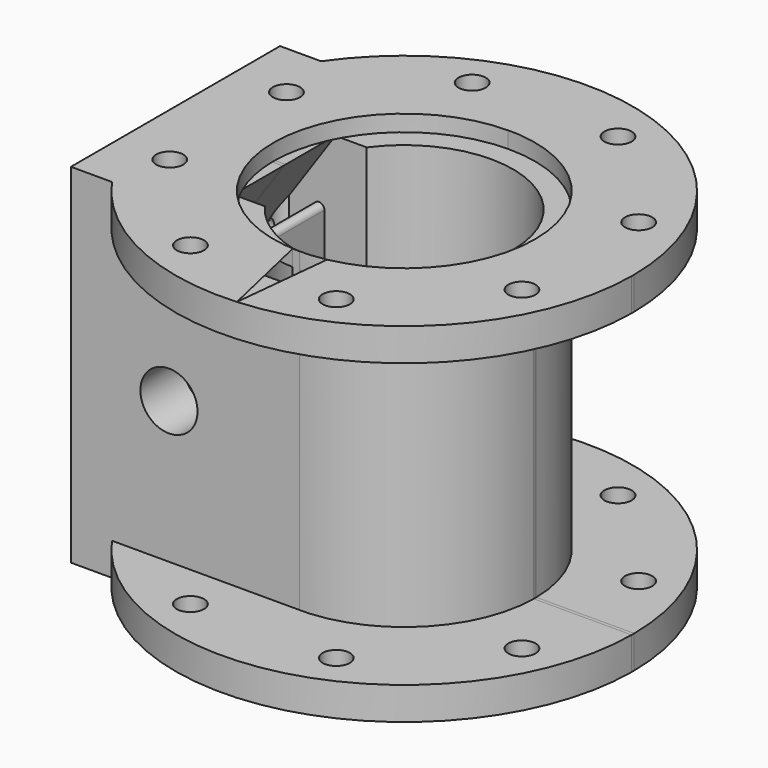
from build123d import *

# Parameters (mm, degrees)
F0_R      = 20
F0_R_2    = 2.5
F2_DEPTH  = 64
F3_R      = 2.5
F3_R_2    = 24.0344370868
F4_DEPTH  = 6
F5_R      = 2.5
F6_DEPTH  = 6
F9_D      = 3.3
F9_DEPTH  = 10
F9_TIP    = 0.9914200214
F10_DEPTH = 3
F12_W     = 120.8478473127
F12_H     = 85.8693234622
F13_DEPTH = 55.4
F14_W     = 3.756329813
F14_H     = 61
F15_DEPTH = 12
F17_D     = 10.5
F17_DEPTH = 9.91
F17_TIP   = 3.1545182499
F19_DEPTH = 10


with BuildPart() as f2:
    # F0 (on Top) → F2 (new body)
    with BuildSketch(Plane.XY):
        with BuildLine():
            ThreePointArc((0, 24), (-24, 0), (0, -24))
            ThreePointArc((0, -24), (16.9705627485, -16.9705627485), (24, 0))
            ThreePointArc((24, 0), (16.9705627485, 16.9705627485), (0, 24))
        make_face()
        Circle(F0_R, mode=Mode.SUBTRACT)
        with BuildLine():
            Line((-42, -24), (-34.4673758792, -24))
            Line((-34.4673758792, -24), (0, -24))
            ThreePointArc((0, -24), (-24, 0), (0, 24))
            Line((0, 24), (-34.4673758792, 24))
            Line((-34.4673758792, 24), (-42, 24))
            Line((-42, 24), (-42, 21.1562868208))
            Line((-42, 21.1562868208), (-42, 17.4879040569))
            Line((-42, 17.4879040569), (-42, -24))
        make_face()
        with Locations((-32.3357836379, -13.3939201328)):
            Circle(F0_R_2, mode=Mode.SUBTRACT)
        with Locations((-32.3357836379, 13.3939201328)):
            Circle(F0_R_2, mode=Mode.SUBTRACT)
    extrude(amount=-F2_DEPTH)

    # F3 (on Top) → F4 (join)
    with BuildSketch(Plane.XY):
        with BuildLine():
            Line((-42, -24), (-34.4673758792, -24))
            ThreePointArc((-34.4673758792, -24), (42, 0), (-34.4673758792, 24))
            Line((-34.4673758792, 24), (-42, 24))
            Line((-42, 24), (-42, -24))
        make_face()
        with Locations((-13.3939201328, -32.3357836379)):
            Circle(F3_R, mode=Mode.SUBTRACT)
        with Locations((-32.3357836379, -13.3939201328)):
            Circle(F3_R, mode=Mode.SUBTRACT)
        with Locations((13.3939201328, -32.3357836379)):
            Circle(F3_R, mode=Mode.SUBTRACT)
        Circle(F3_R_2, mode=Mode.SUBTRACT)
        with Locations((32.3357836379, -13.3939201328)):
            Circle(F3_R, mode=Mode.SUBTRACT)
        with Locations((-32.3357836379, 13.3939201328)):
            Circle(F3_R, mode=Mode.SUBTRACT)
        with Locations((-13.3939201328, 32.3357836379)):
            Circle(F3_R, mode=Mode.SUBTRACT)
        with Locations((32.3357836379, 13.3939201328)):
            Circle(F3_R, mode=Mode.SUBTRACT)
        with Locations((13.3939201328, 32.3357836379)):
            Circle(F3_R, mode=Mode.SUBTRACT)
    extrude(amount=-F4_DEPTH)

    # F5 (on face) → F6 (join)
    with BuildSketch(Plane(origin=(0, 0, -64), x_dir=(1, 0, 0), z_dir=(0, 0, -1))):
        with BuildLine():
            Line((-34.4673758792, 24), (-1.2861438799, 24))
            ThreePointArc((-1.2861438799, 24), (24.0344370868, 0), (-1.2861438799, -24))
            Line((-1.2861438799, -24), (-34.4673758792, -24))
            ThreePointArc((-34.4673758792, -24), (42, 0), (-34.4673758792, 24))
        make_face()
        with Locations((-13.3939201328, -32.3357836379)):
            Circle(F5_R, mode=Mode.SUBTRACT)
        with Locations((13.3939201328, -32.3357836379)):
            Circle(F5_R, mode=Mode.SUBTRACT)
        with Locations((32.3357836379, -13.3939201328)):
            Circle(F5_R, mode=Mode.SUBTRACT)
        with Locations((-13.3939201328, 32.3357836379)):
            Circle(F5_R, mode=Mode.SUBTRACT)
        with Locations((32.3357836379, 13.3939201328)):
            Circle(F5_R, mode=Mode.SUBTRACT)
        with Locations((13.3939201328, 32.3357836379)):
            Circle(F5_R, mode=Mode.SUBTRACT)
    extrude(amount=-F6_DEPTH)

    # F9
    with Locations(Plane(origin=(-42, 0, 0), x_dir=(0, -1, 0), z_dir=(-1, 0, 0))):
        with Locations((-19, -5.5), (19, -5.5), (-19, -58.5), (19, -58.5)):
            Hole(F9_D / 2, depth=F9_DEPTH)
            with Locations((0, 0, -(F9_DEPTH + F9_TIP / 2))):  # 118° drill point
                Cone(0, F9_D / 2, F9_TIP, mode=Mode.SUBTRACT)

    # F0 (on Top) → F10 (cut)
    with BuildSketch(Plane.XY):
        with BuildLine():
            ThreePointArc((0, 24), (-24, 0), (0, -24))
            ThreePointArc((0, -24), (16.9705627485, -16.9705627485), (24, 0))
            ThreePointArc((24, 0), (16.9705627485, 16.9705627485), (0, 24))
        make_face()
        Circle(F0_R, mode=Mode.SUBTRACT)
    extrude(amount=-F10_DEPTH, mode=Mode.SUBTRACT)

    # F12 (on offset) → F13 (cut)
    with BuildSketch(Plane.XZ.offset(-55.7)):
        with Locations((-2.7961898595, -26.8855560571)):
            Rectangle(F12_W, F12_H)
    extrude(amount=F13_DEPTH, mode=Mode.SUBTRACT)

    # F14 (on face) → F15 (cut)
    with BuildSketch(Plane(origin=(0, 0.3, 0), x_dir=(-1, 0, 0), z_dir=(0, 1, 0))):
        with BuildLine():
            Line((23.9981249268, -48.9203250201), (23.9981249268, -15.6642329194))
            ThreePointArc((23.9981249268, -15.6642329194), (24.6480286686, -14.7275191905), (25.7529901468, -15.0083529765))
            Line((25.7529901468, -15.0083529765), (33.7010043152, -24.1558799429))
            ThreePointArc((33.7010043152, -24.1558799429), (34.0410683437, -24.409912068), (34.4558695353, -24.5))
            Line((34.4558695353, -24.5), (42, -24.5))
            Line((42, -24.5), (42, -20.5))
            Line((42, -20.5), (34, -20.5))
            Line((34, -20.5), (21.9979374001, -3))
            Line((21.9979374001, -3), (19.9977498734, -3))
            Line((19.9977498734, -3), (19.9977498734, -64))
            Line((19.9977498734, -64), (23.9981249268, -64))
            Line((23.9981249268, -64), (23.9981249268, -60))
            Line((23.9981249268, -60), (34, -42.5))
            Line((34, -42.5), (42, -42.5))
            Line((42, -42.5), (42, -38.5))
            Line((42, -38.5), (34.5023088645, -38.5))
            ThreePointArc((34.5023088645, -38.5), (34.0534454687, -38.6063996128), (33.700099856, -38.9029566961))
            Line((33.700099856, -38.9029566961), (25.8003339353, -49.5173683239))
            ThreePointArc((25.8003339353, -49.5173683239), (24.6836483843, -49.8695902645), (23.9981249268, -48.9203250201))
        make_face()
        with BuildLine():
            Line((42, -34.5), (42, -28.5))
            Line((42, -28.5), (34, -28.5))
            ThreePointArc((34, -28.5), (31, -31.5), (34, -34.5))
            Line((34, -34.5), (42, -34.5))
        make_face()
        with Locations((18.1195849669, -33.5)):
            Rectangle(F14_W, F14_H)
    extrude(amount=-F15_DEPTH, mode=Mode.SUBTRACT)

    # F16: F2 across plane


with BuildPart() as f2_1:
    add(f2.part)
    add(f2.part.mirror(Plane.XZ))

    # F17
    with Locations(Plane.XZ.offset(24)):
        with Locations((-24, -32)):
            Hole(F17_D / 2, depth=F17_DEPTH)
            with Locations((0, 0, -(F17_DEPTH + F17_TIP / 2))):  # 118° drill point
                Cone(0, F17_D / 2, F17_TIP, mode=Mode.SUBTRACT)

    # F18 (on face) → F19 (cut)
    with BuildSketch(Plane(origin=(-42, 0, 0), x_dir=(0, -1, 0), z_dir=(-1, 0, 0))):
        with BuildLine():
            Line((-11.7, -24.5), (-11.7, -20.5))
            ThreePointArc((-11.7, -20.5), (-13.7, -22.5), (-11.7, -24.5))
        make_face()
        with BuildLine():
            ThreePointArc((11.7, -24.5), (13.7, -22.5), (11.7, -20.5))
            Line((11.7, -20.5), (11.7, -24.5))
        make_face()
        with BuildLine():
            ThreePointArc((-11.7, -28.5), (-14.7, -31.5), (-11.7, -34.5))
            Line((-11.7, -34.5), (-11.7, -28.5))
        make_face()
        with BuildLine():
            Line((11.7, -28.5), (11.7, -34.5))
            ThreePointArc((11.7, -34.5), (14.7, -31.5), (11.7, -28.5))
        make_face()
        with BuildLine():
            Line((-11.7, -42.5), (-11.7, -38.5))
            ThreePointArc((-11.7, -38.5), (-13.7, -40.5), (-11.7, -42.5))
        make_face()
        with BuildLine():
            ThreePointArc((11.7, -42.5), (13.7, -40.5), (11.7, -38.5))
            Line((11.7, -38.5), (11.7, -42.5))
        make_face()
    extrude(amount=-F19_DEPTH, mode=Mode.SUBTRACT)


solid = f2_1.part
